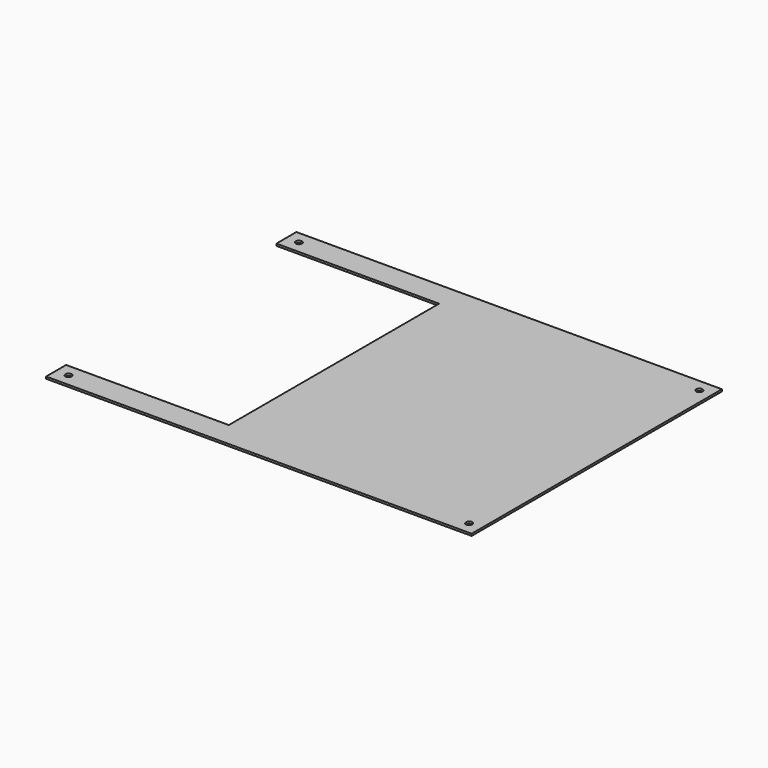
from build123d import *

# Parameters (mm, degrees)
F0_R     = 3.175
F1_DEPTH = 2.0574


with BuildPart() as f1:
    # F0 (on Top) → F1 (new body)
    with BuildSketch(Plane.XY):
        Polygon((215.9, 158.75), (-215.9, 158.75), (-215.9, 133.35), (-50.8, 133.35), (-50.8, -133.35), (-215.9, -133.35), (-215.9, -158.75), (215.9, -158.75), align=None)
        with Locations((-203.2, -146.05)):
            Circle(F0_R, mode=Mode.SUBTRACT)
        with Locations((203.2, -146.05)):
            Circle(F0_R, mode=Mode.SUBTRACT)
        with Locations((-203.2, 146.05)):
            Circle(F0_R, mode=Mode.SUBTRACT)
        with Locations((203.2, 146.05)):
            Circle(F0_R, mode=Mode.SUBTRACT)
    extrude(amount=F1_DEPTH)


solid = f1.part
